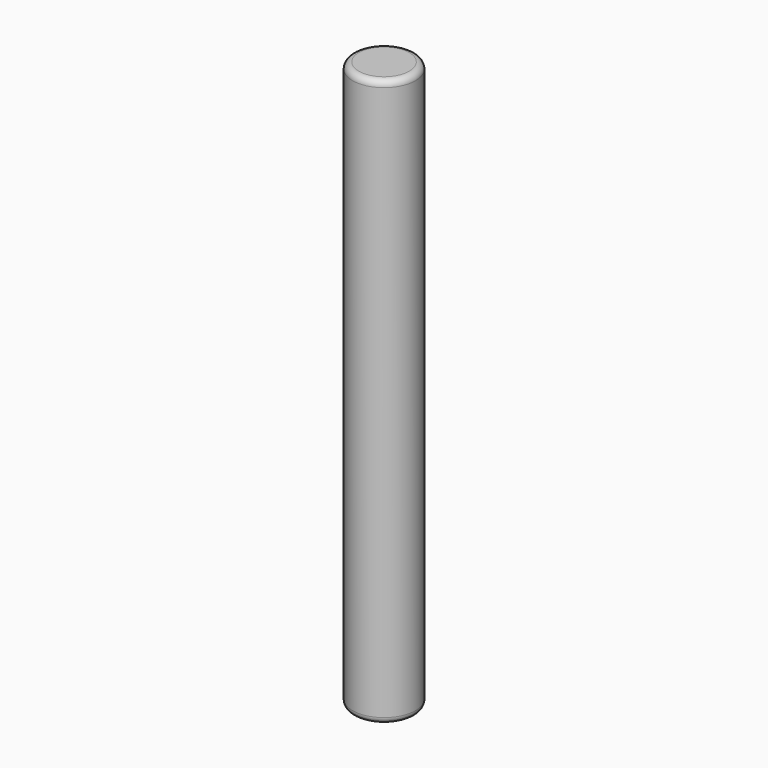
from build123d import *

# Parameters (mm, degrees)
F0_R     = 25.4
F1_DEPTH = 444.5
F2_R     = 22.225
F3_DEPTH = 431.8
F4_R     = 25.4
F5_DEPTH = 12.7
F6_R     = 5.08
F7_R     = 5.08


with BuildPart() as f1:
    # F0 (on Top) → F1 (new body)
    with BuildSketch(Plane.XY):
        Circle(F0_R)
    extrude(amount=F1_DEPTH)

    # F2 (on face) → F3 (cut)
    with BuildSketch(Plane.XY.offset(444.5)):
        Circle(F2_R)
    extrude(amount=-F3_DEPTH, mode=Mode.SUBTRACT)

    # F4 (on face) → F5 (join)
    with BuildSketch(Plane.XY.offset(444.5)):
        Circle(F4_R)
    extrude(amount=F5_DEPTH)

    # F6
    f6_edges = [f1.edges().sort_by_distance(p)[0] for p in [
        (-25.4, 0, 457.2),
    ]]
    fillet(f6_edges, radius=F6_R)

    # F7
    f7_edges = [f1.edges().sort_by_distance(p)[0] for p in [
        (-25.4, 0, 0),
    ]]
    fillet(f7_edges, radius=F7_R)


solid = f1.part
